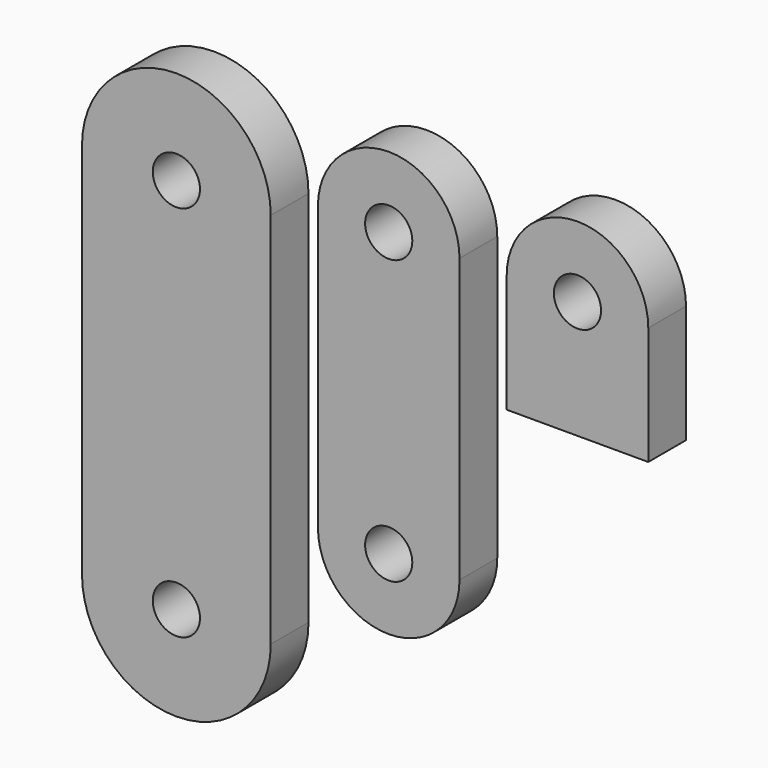
from build123d import *

# Parameters (mm, degrees)
F0_R     = 6.35
F1_DEPTH = 12.7
F2_R     = 6.35
F3_DEPTH = 12.7
F4_R     = 6.35
F5_DEPTH = 12.7


with BuildPart() as f1:
    # F0 (on Front) → F1 (new body)
    with BuildSketch(Plane.XZ):
        with BuildLine():
            Line((19.05, 0), (19.05, 31.75))
            ThreePointArc((19.05, 31.75), (0, 50.8), (-19.05, 31.75))
            Line((-19.05, 31.75), (-19.05, 0))
            Line((-19.05, 0), (19.05, 0))
        make_face()
        with Locations((0, 31.75)):
            Circle(F0_R, mode=Mode.SUBTRACT)
    extrude(amount=F1_DEPTH)


with BuildPart() as f3:
    # F2 (on Front) → F3 (new body)
    with BuildSketch(Plane.XZ):
        with BuildLine():
            Line((-31.75, -44.45), (-31.75, 31.75))
            ThreePointArc((-31.75, 31.75), (-50.8, 50.8), (-69.85, 31.75))
            Line((-69.85, 31.75), (-69.85, -44.45))
            ThreePointArc((-69.85, -44.45), (-50.8, -63.5), (-31.75, -44.45))
        make_face()
        with Locations((-50.8, -44.45)):
            Circle(F2_R, mode=Mode.SUBTRACT)
        with Locations((-50.8, 31.75)):
            Circle(F2_R, mode=Mode.SUBTRACT)
    extrude(amount=F3_DEPTH)


with BuildPart() as f5:
    # F4 (on Front) → F5 (new body)
    with BuildSketch(Plane.XZ):
        with BuildLine():
            Line((-82.55, -76.2), (-82.55, 25.4))
            ThreePointArc((-82.55, 25.4), (-107.95, 50.8), (-133.35, 25.4))
            Line((-133.35, 25.4), (-133.35, -76.2))
            ThreePointArc((-133.35, -76.2), (-107.95, -101.6), (-82.55, -76.2))
        make_face()
        with Locations((-107.95, -76.2)):
            Circle(F4_R, mode=Mode.SUBTRACT)
        with Locations((-107.95, 25.4)):
            Circle(F4_R, mode=Mode.SUBTRACT)
    extrude(amount=F5_DEPTH)


solid = Compound([f1.part, f3.part, f5.part])
